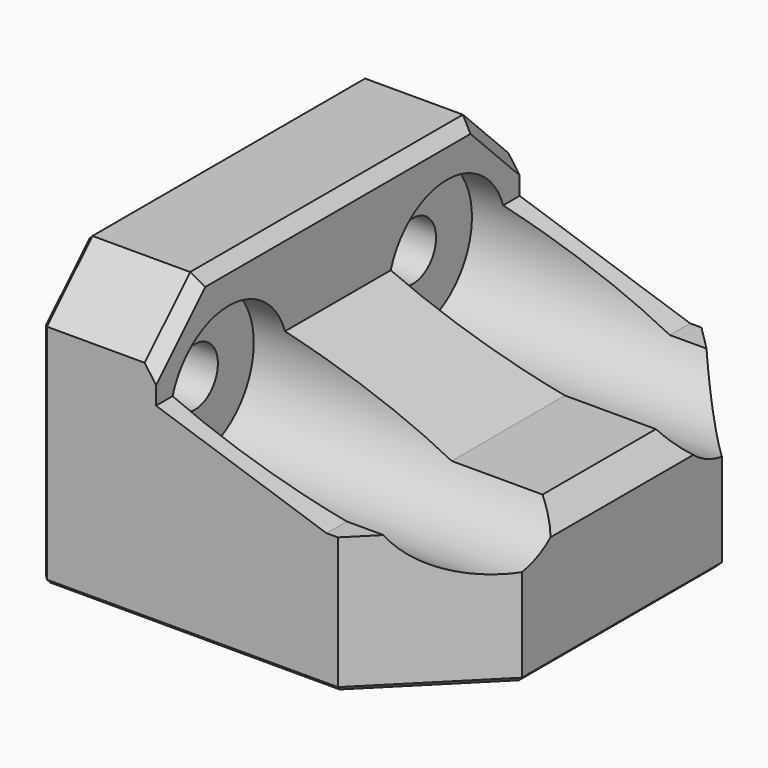
from build123d import *

# Parameters (mm, degrees)
BOX017_W           = 3
BOX017_H           = 16
BOX017_DEPTH       = 6.4
CHAMFER033017_SIZE = 2
CYLINDER023_R      = 2.55
CYLINDER023_DEPTH  = 40
CYLINDER022_R      = 2.55
CYLINDER022_DEPTH  = 40
CYLINDER020_R      = 6.5
CYLINDER020_DEPTH  = 30
CYLINDER021_R      = 6.5
CYLINDER021_DEPTH  = 30
BOX015_W           = 35
BOX015_H           = 40
BOX015_DEPTH       = 12
BOX016_W           = 10
BOX016_H           = 40
BOX016_DEPTH       = 25
CHAMFER025_SIZE2   = 5
CHAMFER025_SIZE    = 15
CHAMFER026_SIZE    = 5
CHAMFER027_SIZE    = 9
CHAMFER028_SIZE    = 0.4
CHAMFER029_SIZE    = 2
CHAMFER030_SIZE    = 1


with BuildPart() as chamfer033017:
    # Box017 → Box017 (new body)
    with BuildSketch(Plane(origin=(-27, -8, 11.6), x_dir=(1, 0, 0), z_dir=(0, 0, 1))):
        with Locations((1.5, 8)):
            Rectangle(BOX017_W, BOX017_H)
    extrude(amount=BOX017_DEPTH)

    # Chamfer033017
    chamfer033017_edges = [chamfer033017.edges().sort_by_distance(p)[0] for p in [
        (-27, 0, 11.6),
    ]]
    chamfer(chamfer033017_edges, length=CHAMFER033017_SIZE)


with BuildPart() as cylinder021:
    # Cylinder023 → Cylinder023 (new body)
    with BuildSketch(Plane(origin=(10, 12, 15), x_dir=(0, 0, 1), z_dir=(-1, 0, 0))):
        Circle(CYLINDER023_R)
    extrude(amount=CYLINDER023_DEPTH)


with BuildPart() as fusion018:
    # Cylinder022 → Cylinder022 (new body)
    with BuildSketch(Plane(origin=(10, -12, 15), x_dir=(0, 0, 1), z_dir=(-1, 0, 0))):
        Circle(CYLINDER022_R)
    extrude(amount=CYLINDER022_DEPTH)

    # Fusion018: union Cylinder021
    add(cylinder021.part)


with BuildPart() as cylinder018:
    # Cylinder020 → Cylinder020 (new body)
    with BuildSketch(Plane(origin=(10, -12, 15), x_dir=(0, 0, 1), z_dir=(-1, 0, 0))):
        Circle(CYLINDER020_R)
    extrude(amount=CYLINDER020_DEPTH)


with BuildPart() as fusion016:
    # Cylinder021 → Cylinder021 (new body)
    with BuildSketch(Plane(origin=(10, 12, 15), x_dir=(0, 0, 1), z_dir=(-1, 0, 0))):
        Circle(CYLINDER021_R)
    extrude(amount=CYLINDER021_DEPTH)

    # Fusion016: union Cylinder018
    add(cylinder018.part)


with BuildPart() as fusion016_1:
    # Fusion016 placement: moved
    add(fusion016.part.moved(Location((2, 0, 0))))


with BuildPart() as cube015:
    # Box015 → Box015 (new body)
    with BuildSketch(Plane(origin=(-25, -20, 0), x_dir=(1, 0, 0), z_dir=(0, 0, 1))):
        with Locations((17.5, 20)):
            Rectangle(BOX015_W, BOX015_H)
    extrude(amount=BOX015_DEPTH)


with BuildPart() as top_mount_base:
    # Box016 → Box016 (new body)
    with BuildSketch(Plane(origin=(-25, -20, 0), x_dir=(1, 0, 0), z_dir=(0, 0, 1))):
        with Locations((5, 20)):
            Rectangle(BOX016_W, BOX016_H)
    extrude(amount=BOX016_DEPTH)

    # Fusion019: union Cube015
    add(cube015.part)

    # Chamfer025
    chamfer025_edges = [top_mount_base.edges().sort_by_distance(p)[0] for p in [
        (-15, 0, 12),
    ]]
    chamfer025_side = top_mount_base.faces().sort_by_distance((-2.5, 0, 12))[0]
    chamfer(chamfer025_edges, length=CHAMFER025_SIZE, length2=CHAMFER025_SIZE2, reference=chamfer025_side)

    # Chamfer026
    chamfer026_edges = [top_mount_base.edges().sort_by_distance(p)[0] for p in [
        (-20, -20, 25),
        (-20, 20, 25),
    ]]
    chamfer(chamfer026_edges, length=CHAMFER026_SIZE)

    # Chamfer027
    chamfer027_edges = [top_mount_base.edges().sort_by_distance(p)[0] for p in [
        (10, -20, 6),
        (10, 20, 6),
    ]]
    chamfer(chamfer027_edges, length=CHAMFER027_SIZE)

    # Chamfer028
    chamfer028_edges = [top_mount_base.edges().sort_by_distance(p)[0] for p in [
        (-7, -20, 0),
        (5.5, -15.5, 0),
        (-25, -20, 16),
        (-7, 20, 0),
        (5.5, 15.5, 0),
        (10, 0, 0),
        (-20, -20, 0),
        (-25, -20, 6),
        (-25, -17.5, 22.5),
        (-25, 0, 25),
        (-25, 20, 16),
        (-25, 17.5, 22.5),
        (-25, 0, 0),
        (-20, 20, 0),
        (-25, 20, 6),
    ]]
    chamfer(chamfer028_edges, length=CHAMFER028_SIZE)

    # Cut003: cut Fusion016
    add(fusion016_1.part, mode=Mode.SUBTRACT)

    # Cut004: cut Fusion018
    add(fusion018.part, mode=Mode.SUBTRACT)

    # Chamfer029
    chamfer029_edges = [top_mount_base.edges().sort_by_distance(p)[0] for p in [
        (10, 0, 12),
    ]]
    chamfer(chamfer029_edges, length=CHAMFER029_SIZE)

    # Chamfer030
    chamfer030_edges = [top_mount_base.edges().sort_by_distance(p)[0] for p in [
        (-15, -17.5, 22.5),
        (-15, 0, 25),
        (-15, 17.5, 22.5),
    ]]
    chamfer(chamfer030_edges, length=CHAMFER030_SIZE)

    # Fusion020006007: union Chamfer033017
    add(chamfer033017.part)


solid = top_mount_base.part
